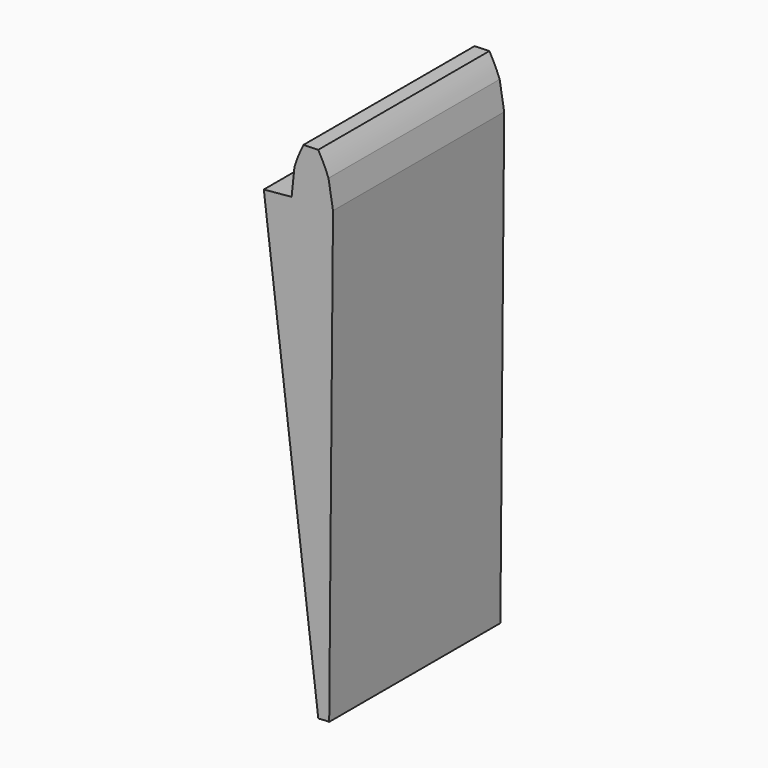
from build123d import *

# Parameters (mm, degrees)
F2_DEPTH = 10


with BuildPart() as f2:
    # F0 (on Front) → F2 (new body)
    with BuildSketch(Plane.XZ):
        with BuildLine():
            Line((0.211261, 25.041597), (0, 26.312215))
            ThreePointArc((0, 26.312215), (-0.220003, 26.826498), (-0.481302, 27.32108))
            ThreePointArc((-0.481302, 27.32108), (-0.825797, 27.312847), (-1.170161, 27.300274))
            ThreePointArc((-1.170161, 27.300274), (-1.401135, 26.790824), (-1.589699, 26.264201))
            Line((-1.589699, 26.264201), (-1.724216, 24.980969))
            Line((-1.724216, 24.980969), (-3.022362, 24.863022))
            Line((-3.022362, 24.863022), (-0.476655, 3.921135))
            ThreePointArc((-0.476655, 3.921135), (-0.222131, 3.943749), (0.033323, 3.949859))
            Line((0.033323, 3.949859), (0.211261, 25.041597))
        make_face()
    extrude(amount=F2_DEPTH)


with BuildPart() as f2_1:
    # F3: moved
    add(f2.part.moved(Location((0, 0, 0.5))))


solid = f2_1.part
